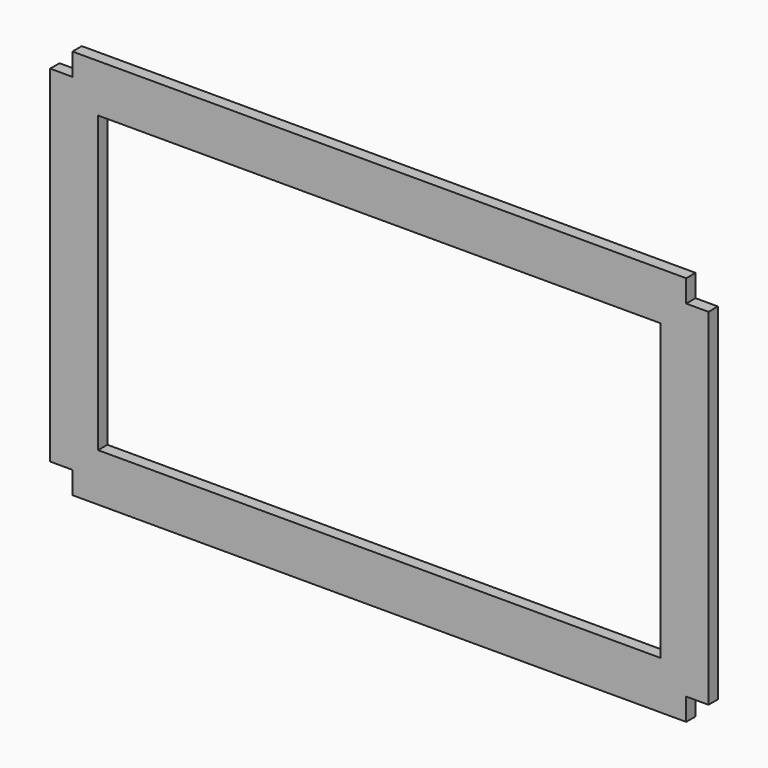
from build123d import *

# Parameters (mm, degrees)
F0_W     = 43
F0_H     = 264
F1_DEPTH = 10.5


with BuildPart() as f1:
    # F0 (on Front) → F1 (new body)
    with BuildSketch(Plane.XZ):
        Polygon((275, 155), (275, 175), (-275, 175), (-275, 155), (-295, 155), (-295, 132), (-252, 132), (252, 132), (295, 132), (295, 155), align=None)
        with Locations((273.5, 0)):
            Rectangle(F0_W, F0_H)
        with Locations((-273.5, 0)):
            Rectangle(F0_W, F0_H)
        Polygon((295, -155), (295, -132), (252, -132), (-252, -132), (-295, -132), (-295, -155), (-275, -155), (-275, -175), (275, -175), (275, -155), align=None)
    extrude(amount=F1_DEPTH)


solid = f1.part
